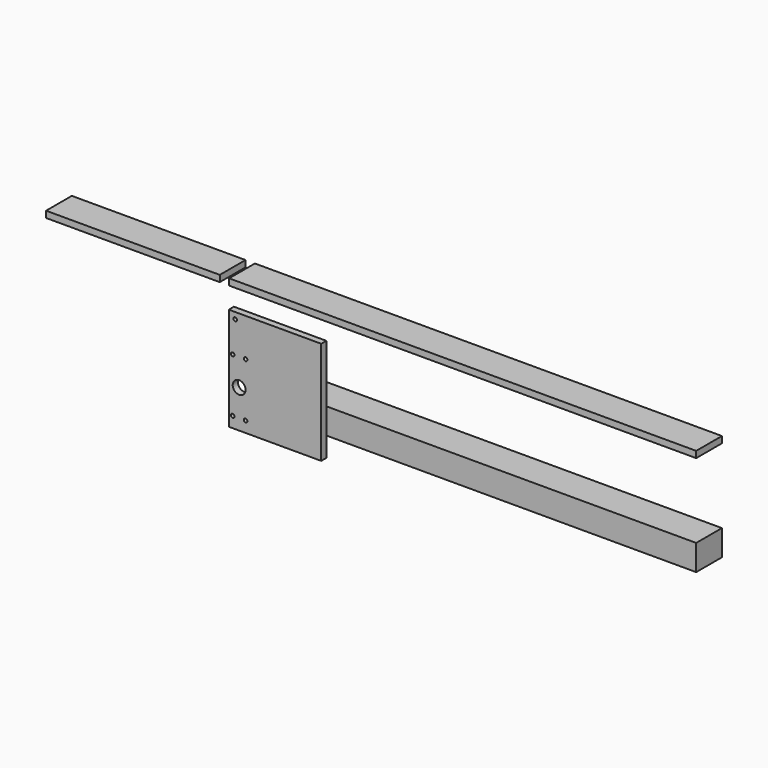
from build123d import *

# Parameters (mm, degrees)
F0_R     = 1.4
F0_R_2   = 5
F0_W     = 20
F0_H     = 20
F0_W_2   = 37.5689805374
F1_DEPTH = 5
F0_W_3   = 135
F0_H_2   = 5
F2_DEPTH = 25
F0_W_4   = 363
F0_W_5   = 287.4310194626


with BuildPart() as f1:
    # F0 (on Front) → F1 (new body)
    with BuildSketch(Plane.XZ):
        Polygon((75.5689805374, -78), (38, -78), (18, -78), (18, -58), (38, -58), (75.5689805374, -58), (75.5689805374, -13.1792854732), (3.7081205519, -13.1792854732), (3.7081205519, -93.3250336647), (75.5689805374, -93.3250336647), align=None)
        with Locations((6.7785530165, -84.8219863176)):
            Circle(F0_R, mode=Mode.SUBTRACT)
        with Locations((16.7785530165, -84.8219863176)):
            Circle(F0_R, mode=Mode.SUBTRACT)
        with Locations((11.7785530165, -63.8219863176)):
            Circle(F0_R_2, mode=Mode.SUBTRACT)
        with Locations((6.7785530165, -42.8219863176)):
            Circle(F0_R, mode=Mode.SUBTRACT)
        with Locations((16.7785530165, -42.8219863176)):
            Circle(F0_R, mode=Mode.SUBTRACT)
        with Locations((8.7081205519, -18.1792854732)):
            Circle(F0_R, mode=Mode.SUBTRACT)
        with Locations((28, -68)):
            Rectangle(F0_W, F0_H)
        with Locations((56.7844902687, -68)):
            Rectangle(F0_W_2, F0_H)
    extrude(amount=F1_DEPTH)

    # F0 (on Front) → F2, piece 3 (join)
    with BuildSketch(Plane.XZ):
        with Locations((219.2844902687, -68)):
            Rectangle(F0_W_5, F0_H)
        with Locations((56.7844902687, -68)):
            Rectangle(F0_W_2, F0_H)
        with Locations((28, -68)):
            Rectangle(F0_W, F0_H)
    extrude(amount=-F2_DEPTH)


with BuildPart() as f2:
    # F0 (on Front) → F2 (new body)
    with BuildSketch(Plane.XZ):
        with Locations((-74.78, 2.5)):
            Rectangle(F0_W_3, F0_H_2)
    extrude(amount=-F2_DEPTH)


with BuildPart() as f2b:
    # F0 (on Front) → F2, piece 2 (new body)
    with BuildSketch(Plane.XZ):
        with Locations((181.5, 2.5)):
            Rectangle(F0_W_4, F0_H_2)
    extrude(amount=-F2_DEPTH)


solid = Compound([f1.part, f2.part, f2b.part])
